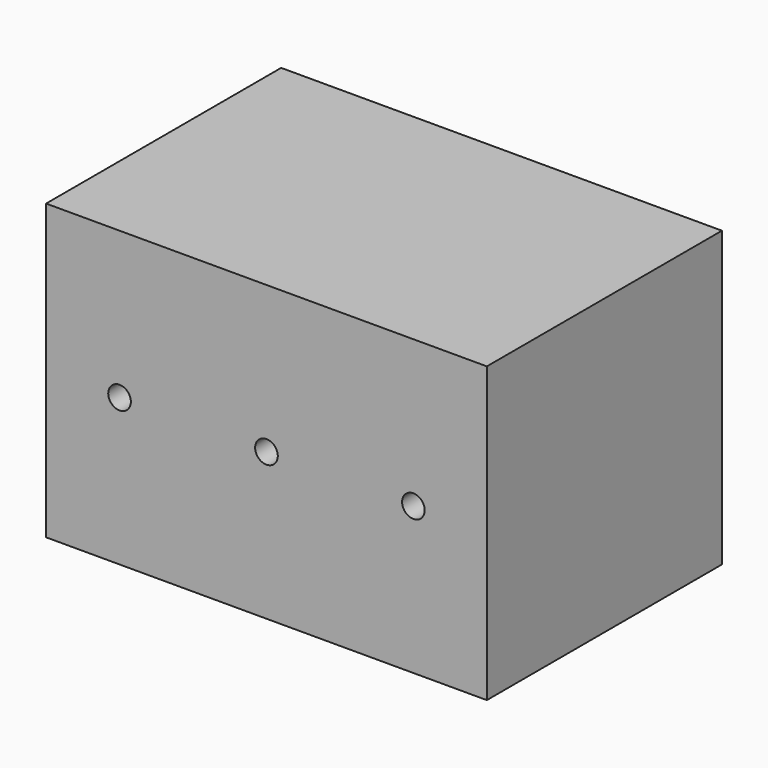
from build123d import *

# Parameters (mm, degrees)
F0_W     = 30
F0_H     = 20
F1_DEPTH = 10
F3_D     = 1.54


with BuildPart() as f1:
    # F0 (on Front) → F1 (new body, symmetric)
    with BuildSketch(Plane.XZ):
        Rectangle(F0_W, F0_H)
    extrude(amount=F1_DEPTH, both=True)

    # F3 (through all)
    with Locations(Plane.XZ.offset(10)):
        with Locations((-10, 0), (0, 0), (10, 0)):
            Hole(F3_D / 2)


solid = f1.part
